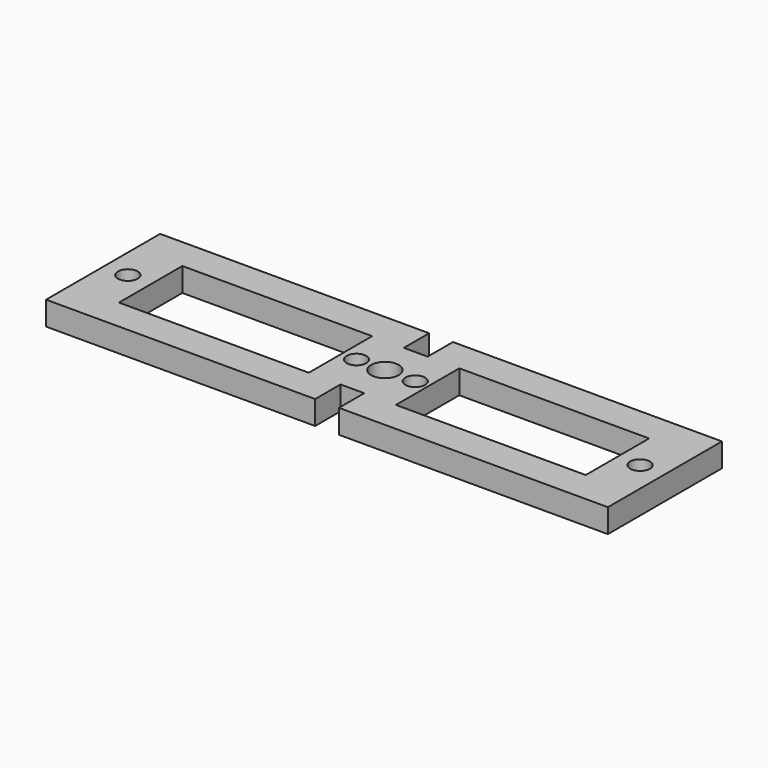
from build123d import *

# Parameters (mm, degrees)
F0_R     = 3.176712
F0_W     = 60.944215
F0_H     = 25.435724
F0_R_2   = 3.170316
F0_R_3   = 4.447947
F0_R_4   = 3.175147
F0_W_2   = 60.941307
F0_R_5   = 3.171767
F1_DEPTH = 7.62


with BuildPart() as f1:
    # F0 (on Top) → F1 (new body)
    with BuildSketch(Plane.XY):
        Polygon((0, -10.154884), (0, 0), (-10.158613, 0), (-15.246199, 0), (-44.828615, 0), (-76.187506, 0), (-86.349189, 0), (-86.349189, -10.154884), (-93.980744, -10.154884), (-93.980744, 0), (-104.15256, 0), (-165.096775, 0), (-170.221075, 0), (-180.353627, 0), (-180.353627, -10.154884), (-180.353627, -35.590608), (-180.353627, -45.754101), (-170.221075, -45.754101), (-165.096775, -45.754101), (-93.980744, -45.754101), (-93.980744, -35.590608), (-86.349189, -35.590608), (-86.349189, -45.754101), (-76.187506, -45.754101), (-15.246199, -45.754101), (-10.158613, -45.754101), (0, -45.754101), (0, -35.590608), align=None)
        with Locations((-172.680676, -22.530714)):
            Circle(F0_R, mode=Mode.SUBTRACT)
        with Locations((-134.624667, -22.872746)):
            Rectangle(F0_W, F0_H, mode=Mode.SUBTRACT)
        with Locations((-99.302329, -22.530714)):
            Circle(F0_R_2, mode=Mode.SUBTRACT)
        with Locations((-90.164967, -22.530714)):
            Circle(F0_R_3, mode=Mode.SUBTRACT)
        with Locations((-80.425173, -22.530714)):
            Circle(F0_R_4, mode=Mode.SUBTRACT)
        with Locations((-45.716853, -22.872746)):
            Rectangle(F0_W_2, F0_H, mode=Mode.SUBTRACT)
        with Locations((-7.969475, -22.877051)):
            Circle(F0_R_5, mode=Mode.SUBTRACT)
    extrude(amount=F1_DEPTH)


solid = f1.part
